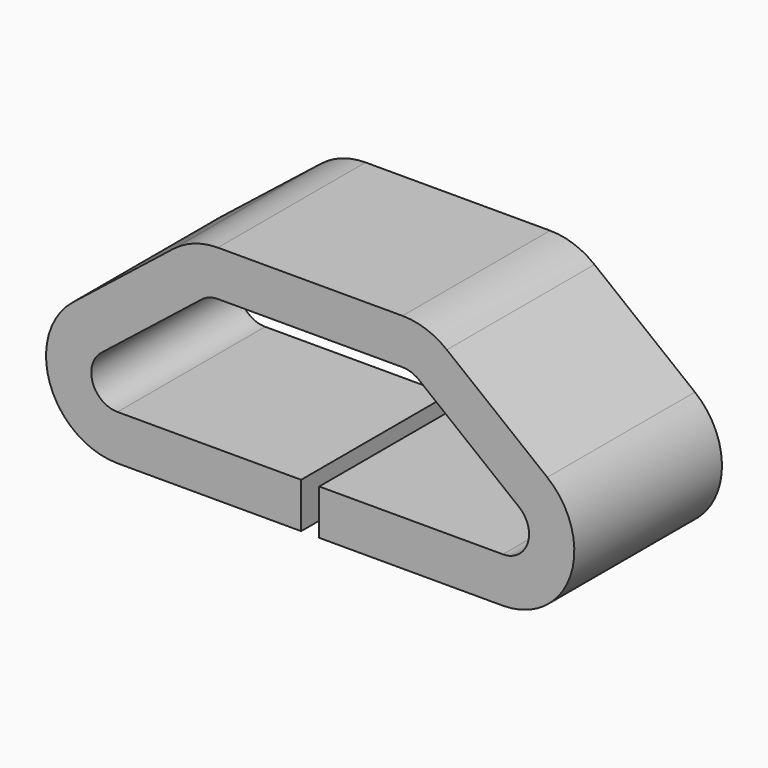
from build123d import *

# Parameters (mm, degrees)
SKETCH001_W = 1.02
SKETCH001_H = 0.25


with BuildPart() as part:
    # AdditivePipe: sweep along a path in Sketch
    with BuildLine(Plane.XZ) as additivepipe_path:
        Line((0.05, 0.125), (1.065, 0.125))
        ThreePointArc((1.065, 0.125), (1.319976, 0.30619), (1.232736, 0.606576))
        Line((1.232736, 0.606576), (0.677736, 1.046576))
        ThreePointArc((0.677736, 1.046576), (0.59881, 1.089976), (0.51, 1.105))
        Line((0.51, 1.105), (-0.51, 1.105))
        ThreePointArc((-0.51, 1.105), (-0.59881, 1.089976), (-0.677736, 1.046576))
        Line((-0.677736, 1.046576), (-1.232736, 0.606576))
        ThreePointArc((-1.232736, 0.606576), (-1.319976, 0.30619), (-1.065, 0.125))
        Line((-1.065, 0.125), (-0.05, 0.125))
    # Sketch001 → AdditivePipe (sweep)
    with BuildSketch(Plane.YZ):
        with Locations((0, 1.105)):
            Rectangle(SKETCH001_W, SKETCH001_H)
    sweep(path=additivepipe_path.line)


solid = part.part
